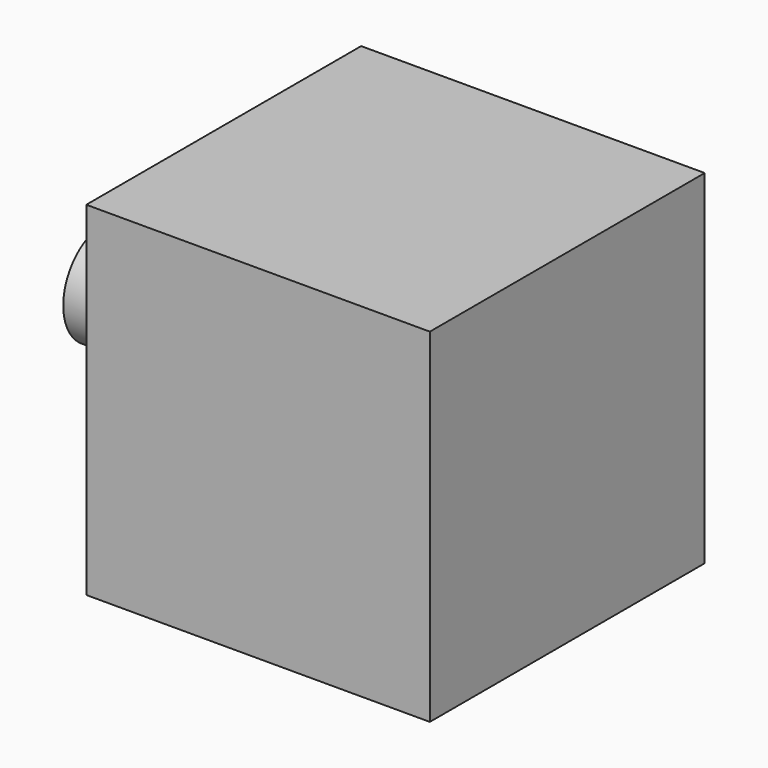
from build123d import *

# Parameters (mm, degrees)
F0_W     = 50
F0_H     = 50
F1_DEPTH = 50
F2_R     = 15
F3_DEPTH = 30
F4_R     = 7.5
F5_DEPTH = 30


with BuildPart() as f1:
    # F0 (on Top) → F1 (new body)
    with BuildSketch(Plane.XY):
        Rectangle(F0_W, F0_H)
    extrude(amount=F1_DEPTH)

    # F2 (on Top) → F3 (cut)
    with BuildSketch(Plane.XY):
        Circle(F2_R)
    extrude(amount=F3_DEPTH, mode=Mode.SUBTRACT)

    # F4 (on Right) → F5 (join)
    with BuildSketch(Plane.YZ):
        with Locations((-15.446586, 34.616902)):
            Circle(F4_R)
    extrude(amount=-F5_DEPTH)


solid = f1.part
